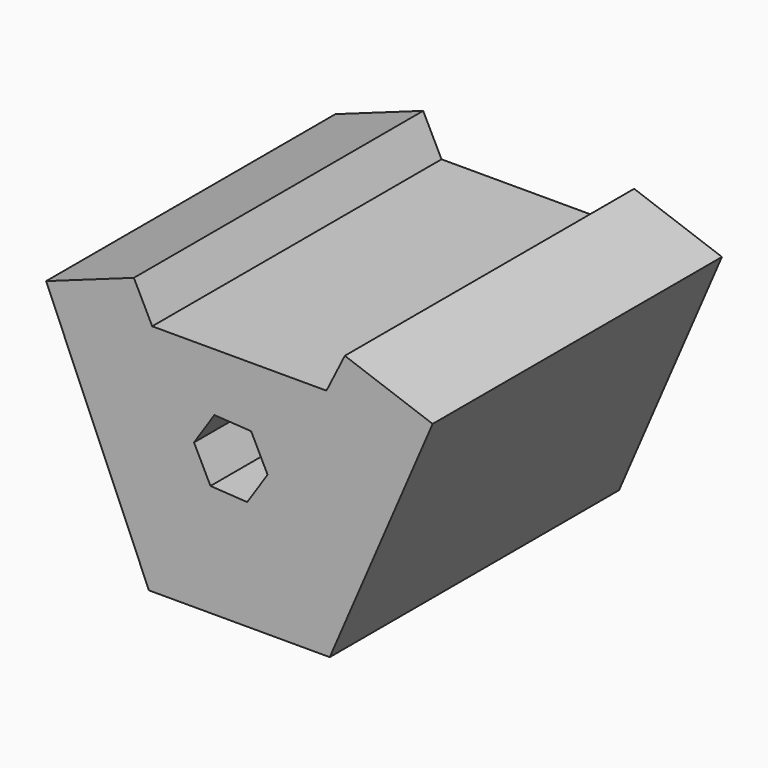
from build123d import *

# Parameters (mm, degrees)
F1_DEPTH = 508
F3_DEPTH = 508


with BuildPart() as f1:
    # F0 (on Front) → F1 (new body)
    with BuildSketch(Plane.XZ):
        Polygon((-127, 0), (0, 0), (127, 0), (271.485519, 335.445643), (148.166673, 379.619592), (122.398554, 328.083336), (0, 328.083336), (-122.398554, 328.083336), (-148.166673, 379.619592), (-271.485519, 335.445643), align=None)
    extrude(amount=F1_DEPTH)

    # F2 (on face) → F3 (cut, through all)
    with BuildSketch(Plane.XZ.offset(508)):
        Polygon((39.65693, 197.219865), (16.565122, 243.540129), (-35.095307, 246.702169), (-63.663928, 203.543945), (-40.57212, 157.223681), (11.088308, 154.061641), align=None)
    extrude(amount=-F3_DEPTH, mode=Mode.SUBTRACT)


solid = f1.part
